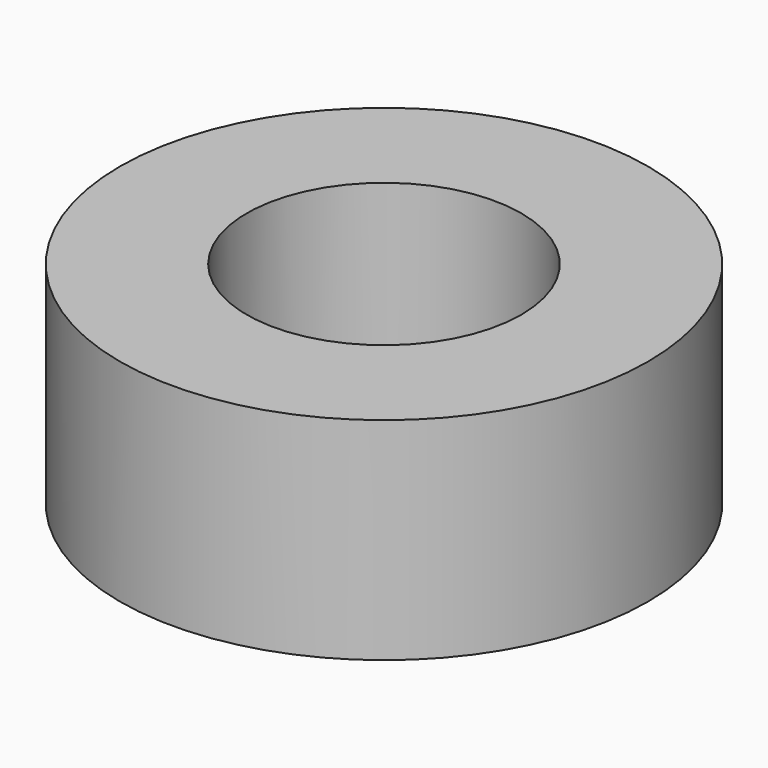
from build123d import *

# Parameters (mm, degrees)
SKETCH_R   = 12.5
SKETCH_R_2 = 6.5
PAD_DEPTH  = 10


with BuildPart() as part:
    # Sketch → Pad (new body)
    with BuildSketch(Plane.XY):
        Circle(SKETCH_R)
        Circle(SKETCH_R_2, mode=Mode.SUBTRACT)
    extrude(amount=PAD_DEPTH)


solid = part.part
